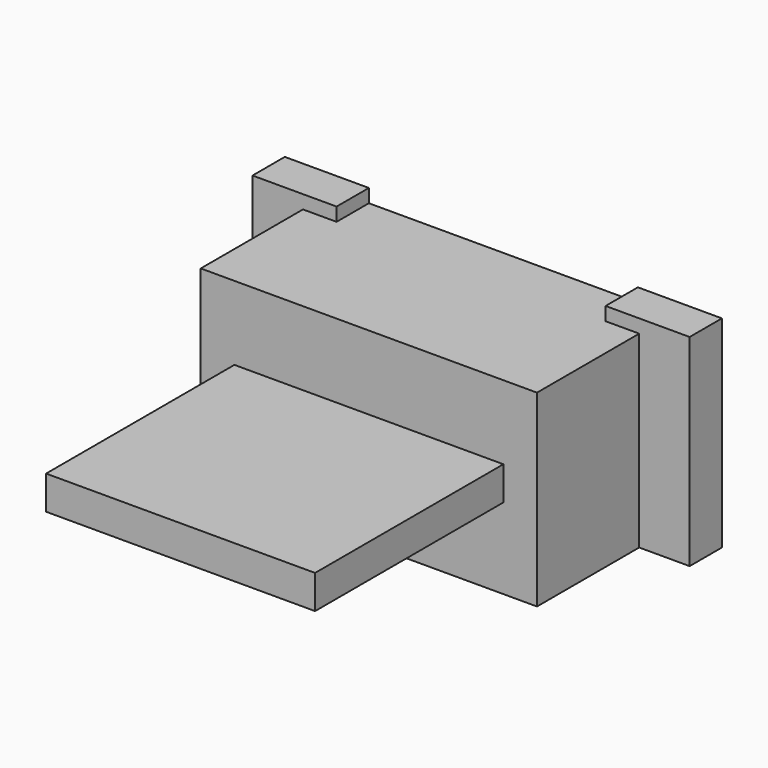
from build123d import *

# Parameters (mm, degrees)
BOX064_W     = 4
BOX064_H     = 0.6
BOX064_DEPTH = 0.2
BOX063_W     = 6.5
BOX063_H     = 0.6
BOX063_DEPTH = 3
BOX066_W     = 4
BOX066_H     = 3.5
BOX066_DEPTH = 0.5
BOX065_W     = 5
BOX065_H     = 2.5
BOX065_DEPTH = 2.8


with BuildPart() as cube040:
    # Box064 → Box064 (new body)
    with BuildSketch(Plane(origin=(-2, -0.6, 2.8), x_dir=(1, 0, 0), z_dir=(0, 0, 1))):
        with Locations((2, 0.3)):
            Rectangle(BOX064_W, BOX064_H)
    extrude(amount=BOX064_DEPTH)


with BuildPart() as cut015:
    # Box063 → Box063 (new body)
    with BuildSketch(Plane(origin=(-3.25, -0.6, 0), x_dir=(1, 0, 0), z_dir=(0, 0, 1))):
        with Locations((3.25, 0.3)):
            Rectangle(BOX063_W, BOX063_H)
    extrude(amount=BOX063_DEPTH)

    # Cut014: cut Cube040
    add(cube040.part, mode=Mode.SUBTRACT)


with BuildPart() as cube026:
    # Box066 → Box066 (new body)
    with BuildSketch(Plane(origin=(-2, -6, 1.2), x_dir=(1, 0, 0), z_dir=(0, 0, 1))):
        with Locations((2, 1.75)):
            Rectangle(BOX066_W, BOX066_H)
    extrude(amount=BOX066_DEPTH)


with BuildPart() as body012:
    # Box065 → Box065 (new body)
    with BuildSketch(Plane(origin=(-2.5, -2.5, 0), x_dir=(1, 0, 0), z_dir=(0, 0, 1))):
        with Locations((2.5, 1.25)):
            Rectangle(BOX065_W, BOX065_H)
    extrude(amount=BOX065_DEPTH)

    # Fusion048: union Cut015, Cube026
    add(cut015.part)
    add(cube026.part)


solid = body012.part
